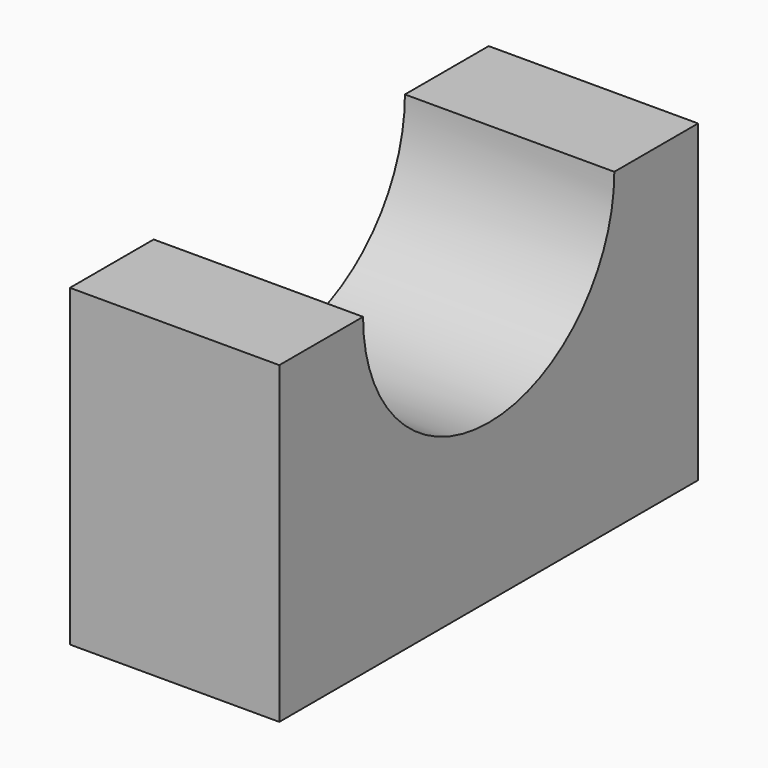
from build123d import *

# Parameters (mm, degrees)
F1_DEPTH = 25.4


with BuildPart() as f1:
    # F0 (on Right) → F1 (new body)
    with BuildSketch(Plane.YZ):
        with BuildLine():
            Line((-63.5, 0), (0, 0))
            Line((0, 0), (0, 38.1))
            Line((0, 38.1), (-12.7, 38.1))
            ThreePointArc((-12.7, 38.1), (-31.75, 19.05), (-50.8, 38.1))
            Line((-50.8, 38.1), (-63.5, 38.1))
            Line((-63.5, 38.1), (-63.5, 0))
        make_face()
    extrude(amount=F1_DEPTH)


solid = f1.part
